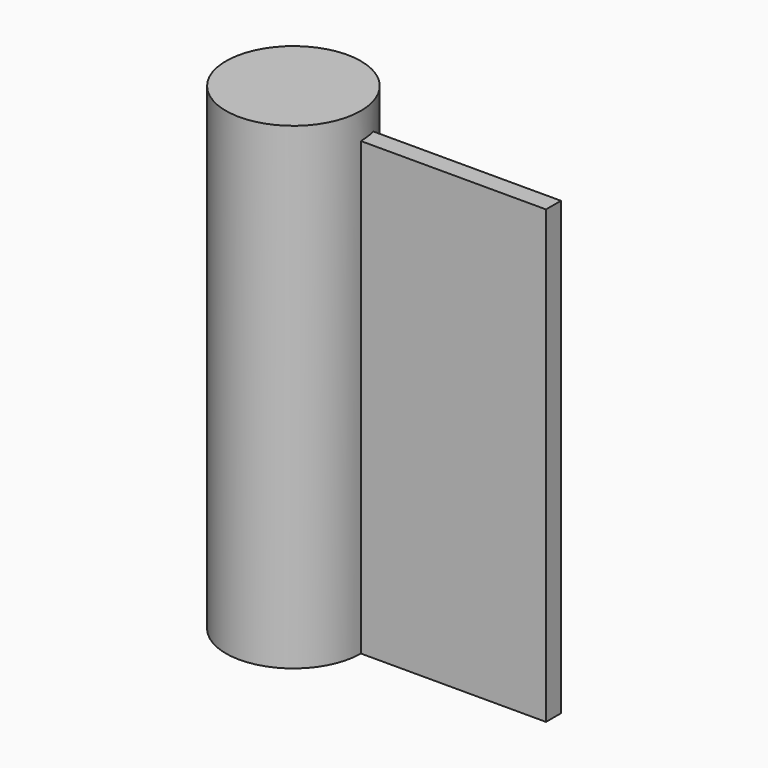
from build123d import *

# Parameters (mm, degrees)
F0_R     = 18.721248
F1_DEPTH = 132.588
F2_W     = 5.19362
F2_H     = 125.223294
F3_DEPTH = 70.104


with BuildPart() as f1:
    # F0 (on Top) → F1 (new body)
    with BuildSketch(Plane.XY):
        Circle(F0_R)
    extrude(amount=F1_DEPTH)

    # F2 (on Right) → F3 (join)
    with BuildSketch(Plane.YZ):
        with Locations((2.59681, 62.611647)):
            Rectangle(F2_W, F2_H)
    extrude(amount=F3_DEPTH)


solid = f1.part
